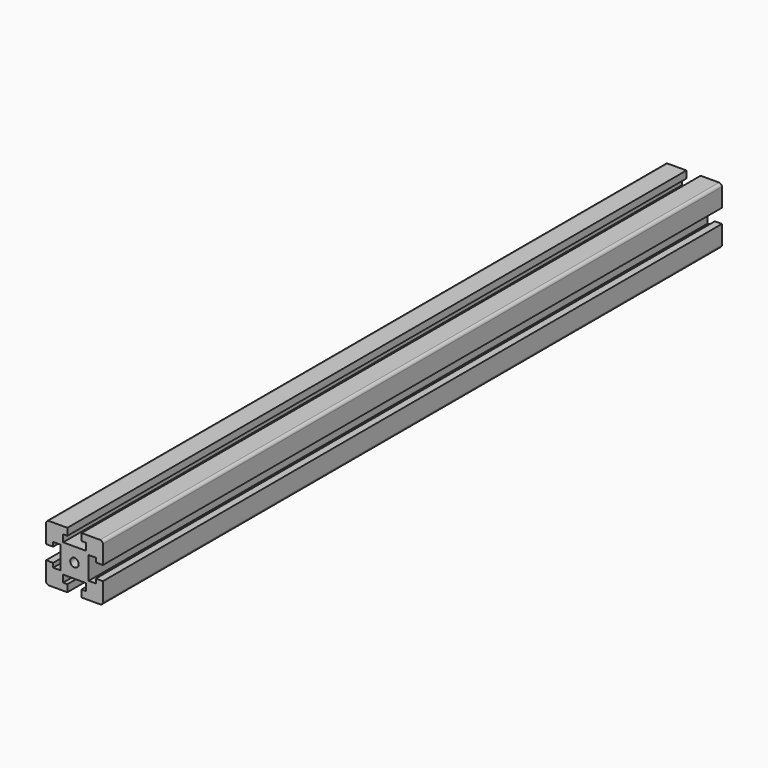
from build123d import *

# Parameters (mm, degrees)
F0_W     = 40
F0_H     = 40
F1_DEPTH = 545
F2_W     = 5
F2_H     = 10
F2_W_2   = 10
F2_H_2   = 5
F2_R     = 3
F3_DEPTH = 545.001
F4_R     = 2


with BuildPart() as f1:
    # F0 (on Front) → F1 (new body)
    with BuildSketch(Plane.XZ):
        Rectangle(F0_W, F0_H)
    extrude(amount=F1_DEPTH)

    # F2 (on face) → F3 (cut, through all)
    with BuildSketch(Plane(origin=(0, 0, 0), x_dir=(-1, 0, 0), z_dir=(0, 1, 0))):
        with Locations((-17.5, 0)):
            Rectangle(F2_W, F2_H)
        Polygon((-15, 8), (-15, 5), (-15, -5), (-15, -8), (-10, -8), (-10, 8), align=None)
        Polygon((5, 15), (-5, 15), (-8, 15), (-8, 10), (8, 10), (8, 15), align=None)
        with Locations((0, 17.5)):
            Rectangle(F2_W_2, F2_H_2)
        Polygon((15, -5), (15, 5), (15, 8), (10, 8), (10, -8), (15, -8), align=None)
        with Locations((17.5, 0)):
            Rectangle(F2_W, F2_H)
        Circle(F2_R)
        Polygon((-8, -15), (-5, -15), (5, -15), (8, -15), (8, -10), (-8, -10), align=None)
        with Locations((0, -17.5)):
            Rectangle(F2_W_2, F2_H_2)
    extrude(amount=-F3_DEPTH, mode=Mode.SUBTRACT)

    # F4
    f4_edges = [f1.edges().sort_by_distance(p)[0] for p in [
        (20, -272.5, 20),
        (-20, -272.5, 20),
        (20, -272.5, -20),
        (-20, -272.5, -20),
    ]]
    fillet(f4_edges, radius=F4_R)


solid = f1.part
